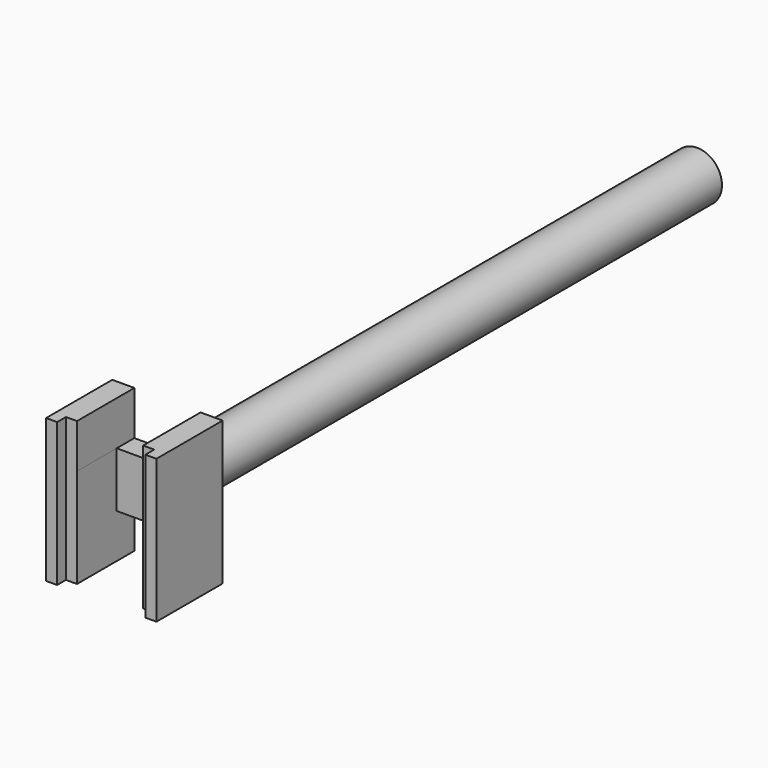
from build123d import *

# Parameters (mm, degrees)
F0_W      = 25.4
F0_H      = 33.02
F2_DEPTH  = 19.05
F3_W      = 15.24
F3_H      = 13.97
F4_DEPTH  = 33.021
F5_W      = 2.54
F5_H      = 2.54
F6_DEPTH  = 33.021
F8_W      = 15.240135
F8_H      = 10.197046
F8_W_2    = 15.24
F8_H_2    = 10.16
F9_DEPTH  = 19.051
F11_R     = 5.715
F12_DEPTH = 152.4


with BuildPart() as f2:
    # F0 (on Front) → F2 (new body)
    with BuildSketch(Plane.XZ):
        with Locations((12.7, 16.51)):
            Rectangle(F0_W, F0_H)
    extrude(amount=-F2_DEPTH)

    # F3 (on face) → F4 (cut, through all)
    with BuildSketch(Plane.XY.offset(33.02)):
        with Locations((12.7, 6.985)):
            Rectangle(F3_W, F3_H)
    extrude(amount=-F4_DEPTH, mode=Mode.SUBTRACT)

    # F5 (on face) → F6 (cut, through all)
    with BuildSketch(Plane.XY.offset(33.02)):
        with Locations((3.81, 1.27)):
            Rectangle(F5_W, F5_H)
        with Locations((21.59, 1.27)):
            Rectangle(F5_W, F5_H)
    extrude(amount=-F6_DEPTH, mode=Mode.SUBTRACT)

    # F8 (on face) → F9 (cut, through all)
    with BuildSketch(Plane.XZ):
        with Locations((12.700067, 27.958523)):
            Rectangle(F8_W, F8_H)
        with Locations((12.7, 5.08)):
            Rectangle(F8_W_2, F8_H_2)
    extrude(amount=-F9_DEPTH, mode=Mode.SUBTRACT)

    # F11 (on face) → F12 (join)
    with BuildSketch(Plane(origin=(0, 19.05, 0), x_dir=(-1, 0, 0), z_dir=(0, 1, 0))):
        with Locations((-12.7, 16.51)):
            Circle(F11_R)
    extrude(amount=F12_DEPTH)


solid = f2.part
